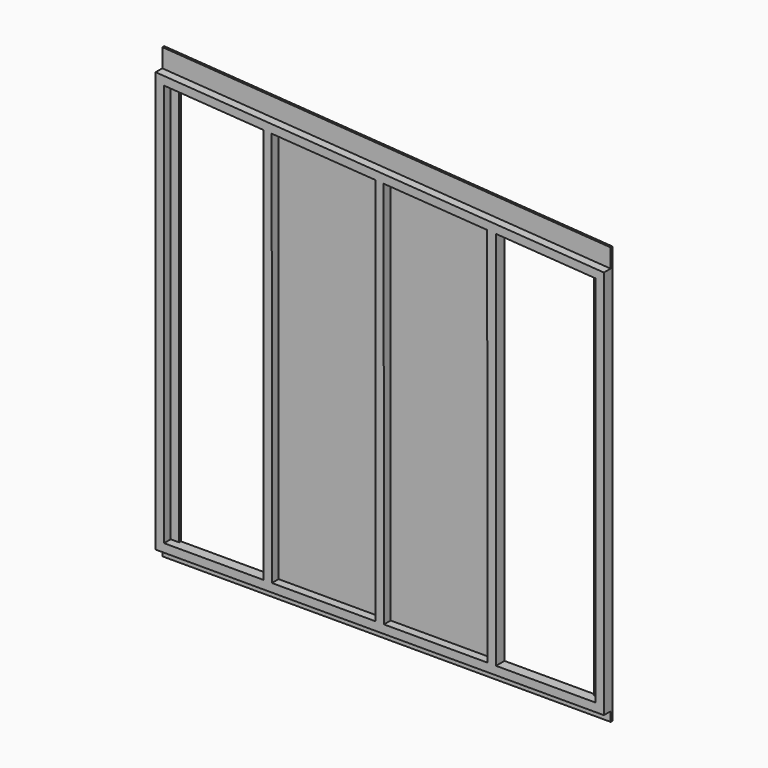
from build123d import *

# Parameters (mm, degrees)
F1_DEPTH = 45
F0_W     = 2400
F0_H     = 50
F2_DEPTH = 12


with BuildPart() as f1:
    # F0 (on Front) → F1 (new body)
    with BuildSketch(Plane.XZ):
        Polygon((1155, 919.413161), (1200, 916.345369), (1200, 961.449818), (-1200, 1125.065404), (-1200, 1079.960954), (-1155, 1076.893162), (-1110, 1073.82537), (-1065, 1070.757578), (-622.5, 1040.590954), (-578.402657, 1037.584699), (-22.5, 999.687058), (20.727312, 996.740115), (574.922534, 958.958875), (622.5, 955.715369), (1110, 922.480953), align=None)
        Polygon((-1200, 1079.960954), (-1200, -1080), (-1155, -1080), (-1155, 1076.893162), align=None)
        Polygon((-622.5, 1040.590954), (-622.5, -1080), (-577.5, -1080), (-578.402657, 1037.584699), align=None)
        Polygon((-22.5, -1080), (22.5, -1080), (20.727312, 996.740115), (-22.5, 999.687058), align=None)
        Polygon((577.5, -1080), (622.5, -1080), (622.5, 955.715369), (574.922534, 958.958875), align=None)
        Polygon((1155, -1080), (1200, -1080), (1200, 916.345369), (1155, 919.413161), align=None)
        Polygon((-1200, -1125), (1200, -1125), (1200, -1080), (1155, -1080), (1110, -1080), (622.5, -1080), (577.5, -1080), (22.5, -1080), (-22.5, -1080), (-577.5, -1080), (-622.5, -1080), (-1065, -1080), (-1110, -1080), (-1155, -1080), (-1200, -1080), align=None)
    extrude(amount=F1_DEPTH)

    # F0 (on Front) → F2 (join)
    with BuildSketch(Plane.XZ):
        Polygon((-1155, 1076.893162), (-1155, -1080), (-1110, -1080), (-1110, 1073.82537), align=None)
        Polygon((-578.402657, 1037.584699), (-577.5, -1080), (-22.5, -1080), (-22.5, 999.687058), align=None)
        Polygon((22.5, -1080), (577.5, -1080), (574.922534, 958.958875), (20.727312, 996.740115), align=None)
        Polygon((1110, -1080), (1155, -1080), (1155, 919.413161), (1110, 922.480953), align=None)
        Polygon((-1200, 1125.065404), (1200, 961.449818), (1200, 1061.384414), (-1200, 1225), align=None)
        Polygon((1155, 919.413161), (1200, 916.345369), (1200, 961.449818), (-1200, 1125.065404), (-1200, 1079.960954), (-1155, 1076.893162), (-1110, 1073.82537), (-1065, 1070.757578), (-622.5, 1040.590954), (-578.402657, 1037.584699), (-22.5, 999.687058), (20.727312, 996.740115), (574.922534, 958.958875), (622.5, 955.715369), (1110, 922.480953), align=None)
        Polygon((-1200, 1079.960954), (-1200, -1080), (-1155, -1080), (-1155, 1076.893162), align=None)
        Polygon((-622.5, 1040.590954), (-622.5, -1080), (-577.5, -1080), (-578.402657, 1037.584699), align=None)
        Polygon((-22.5, -1080), (22.5, -1080), (20.727312, 996.740115), (-22.5, 999.687058), align=None)
        Polygon((577.5, -1080), (622.5, -1080), (622.5, 955.715369), (574.922534, 958.958875), align=None)
        Polygon((1155, -1080), (1200, -1080), (1200, 916.345369), (1155, 919.413161), align=None)
        Polygon((-1200, -1125), (1200, -1125), (1200, -1080), (1155, -1080), (1110, -1080), (622.5, -1080), (577.5, -1080), (22.5, -1080), (-22.5, -1080), (-577.5, -1080), (-622.5, -1080), (-1065, -1080), (-1110, -1080), (-1155, -1080), (-1200, -1080), align=None)
        with Locations((0, -1150)):
            Rectangle(F0_W, F0_H)
    extrude(amount=-F2_DEPTH)


solid = f1.part
